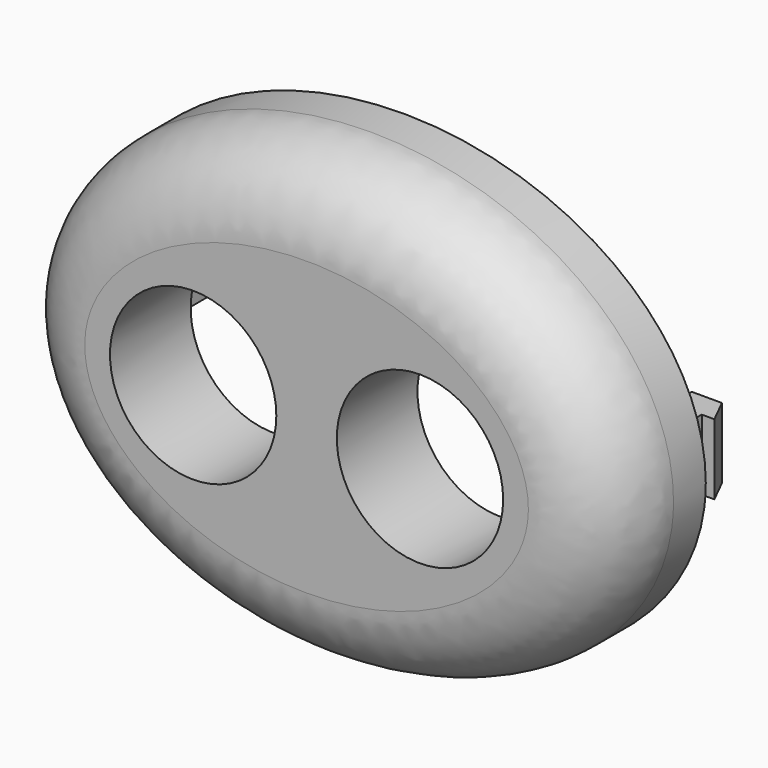
from build123d import *

# Parameters (mm, degrees)
F1_DEPTH = 12
F2_DEPTH = 2
F3_R     = 8
F4_DEPTH = 5
F5_W     = 3
F5_H     = 7
F6_DEPTH = 6
F8_DEPTH = 7


with BuildPart() as f1:
    # F0 (on Front) → F1 (new body)
    with BuildSketch(Plane.XZ):
        with BuildLine():
            add(Edge.make_bspline(
                [(30, 0), (30, 38.971143), (-15, 19.485572), (-60, 0), (-15, -19.485572), (30, -38.971143), (30, 0)],
                knots=[0, 0, 0, 2.094395, 2.094395, 4.18879, 4.18879, 6.283185, 6.283185, 6.283185], degree=2, weights=[1, 0.5, 1, 0.5, 1, 0.5, 1]))
        make_face()
        Polygon((-21.8, 10), (-7.5, 10), (7.5, 10), (21.8, 10), (21.8, -10), (-21.8, -10), align=None, mode=Mode.SUBTRACT)
        with BuildLine():
            ThreePointArc((-5.587624, 6), (-3.674477, 3.267101), (-3, 0))
            ThreePointArc((-3, 0), (-18.285624, -4.308422), (-7.5, 7.348469))
            Line((-7.5, 7.348469), (-7.5, 10))
            Line((-7.5, 10), (-21.8, 10))
            Line((-21.8, 10), (-21.8, -10))
            Line((-21.8, -10), (21.8, -10))
            Line((21.8, -10), (21.8, 10))
            Line((21.8, 10), (7.5, 10))
            Line((7.5, 10), (7.5, 7.348469))
            ThreePointArc((7.5, 7.348469), (15.558422, 7.035624), (19.5, 0))
            ThreePointArc((19.5, 0), (7.982899, -7.575523), (5.587624, 6))
            Line((5.587624, 6), (-5.587624, 6))
        make_face()
        with BuildLine():
            ThreePointArc((-7.5, 7.348469), (-6.49576, 6.742381), (-5.587624, 6))
            Line((-5.587624, 6), (5.587624, 6))
            ThreePointArc((5.587624, 6), (6.49576, 6.742381), (7.5, 7.348469))
            Line((7.5, 7.348469), (7.5, 10))
            Line((7.5, 10), (-7.5, 10))
            Line((-7.5, 10), (-7.5, 7.348469))
        make_face()
    extrude(amount=F1_DEPTH)

    # F0 (on Front) → F2 (cut)
    with BuildSketch(Plane.XZ):
        with BuildLine():
            ThreePointArc((-5.587624, 6), (-3.674477, 3.267101), (-3, 0))
            ThreePointArc((-3, 0), (-18.285624, -4.308422), (-7.5, 7.348469))
            Line((-7.5, 7.348469), (-7.5, 10))
            Line((-7.5, 10), (-21.8, 10))
            Line((-21.8, 10), (-21.8, -10))
            Line((-21.8, -10), (21.8, -10))
            Line((21.8, -10), (21.8, 10))
            Line((21.8, 10), (7.5, 10))
            Line((7.5, 10), (7.5, 7.348469))
            ThreePointArc((7.5, 7.348469), (15.558422, 7.035624), (19.5, 0))
            ThreePointArc((19.5, 0), (7.982899, -7.575523), (5.587624, 6))
            Line((5.587624, 6), (-5.587624, 6))
        make_face()
        with BuildLine():
            ThreePointArc((-7.5, 7.348469), (-6.49576, 6.742381), (-5.587624, 6))
            Line((-5.587624, 6), (5.587624, 6))
            ThreePointArc((5.587624, 6), (6.49576, 6.742381), (7.5, 7.348469))
            Line((7.5, 7.348469), (7.5, 10))
            Line((7.5, 10), (-7.5, 10))
            Line((-7.5, 10), (-7.5, 7.348469))
        make_face()
    extrude(amount=F2_DEPTH, mode=Mode.SUBTRACT)

    # F3
    f3_edges = [f1.edges().sort_by_distance(p)[0] for p in [
        (-30, -12, 0),
    ]]
    fillet(f3_edges, radius=F3_R)

    # F0 (on Front) → F4 (cut)
    with BuildSketch(Plane.XZ):
        with BuildLine():
            ThreePointArc((-7.5, 7.348469), (-6.49576, 6.742381), (-5.587624, 6))
            Line((-5.587624, 6), (5.587624, 6))
            ThreePointArc((5.587624, 6), (6.49576, 6.742381), (7.5, 7.348469))
            Line((7.5, 7.348469), (7.5, 10))
            Line((7.5, 10), (-7.5, 10))
            Line((-7.5, 10), (-7.5, 7.348469))
        make_face()
    extrude(amount=F4_DEPTH, mode=Mode.SUBTRACT)

    # F5 (on face) → F6 (join)
    with BuildSketch(Plane.XZ):
        with Locations((25.3, 0)):
            Rectangle(F5_W, F5_H)
        with Locations((-25.3, 0)):
            Rectangle(F5_W, F5_H)
    extrude(amount=-F6_DEPTH)

    # F7 (on face) → F8 (join, through all)
    with BuildSketch(Plane(origin=(0, 0, -3.5), x_dir=(1, 0, 0), z_dir=(0, 0, -1))):
        Polygon((26.8, -3.5), (26.8, -6), (28.05, -3.5), align=None)
        Polygon((-28.05, -3.5), (-26.8, -6), (-26.8, -3.5), align=None)
    extrude(amount=-F8_DEPTH)


solid = f1.part
